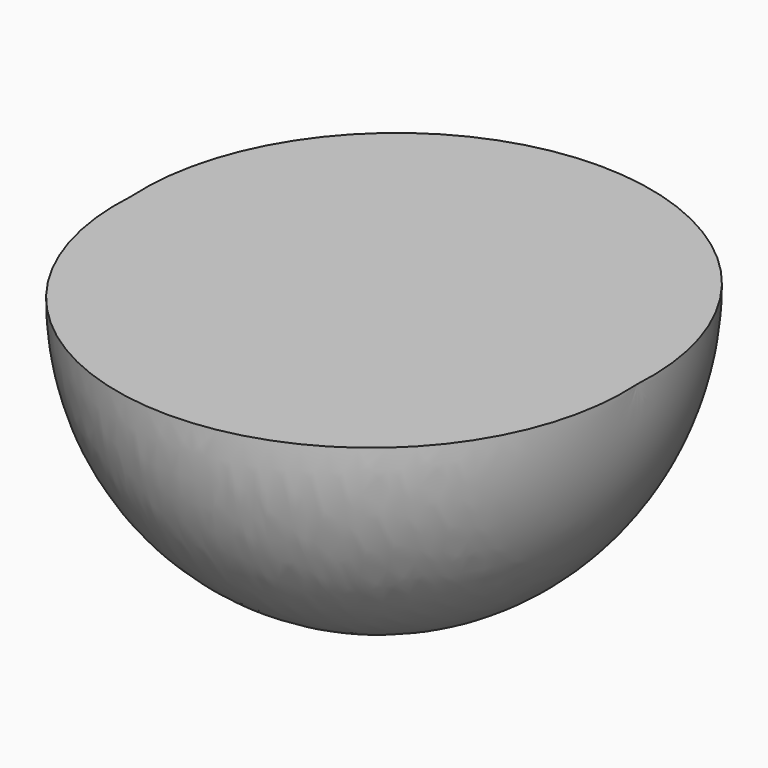
from build123d import *

# Parameters (mm, degrees)
F1_ANGLE = 180


with BuildPart() as f1:
    # F0 (on Top) → F1 (revolve)
    with BuildSketch(Plane.XY):
        with BuildLine():
            Line((26.8294964638, -0.8407185713), (-26.8205660043, -0.6978728695))
            ThreePointArc((-26.8205660043, -0.6978728695), (-0.0715622939, -29.3237523173), (26.8294964638, -0.8407185713))
        make_face()
    revolve(axis=Axis((0.0044652297, -0.7692957204, 0), (0.9999964554, -0.0026625355, 0)), revolution_arc=F1_ANGLE)


solid = f1.part
